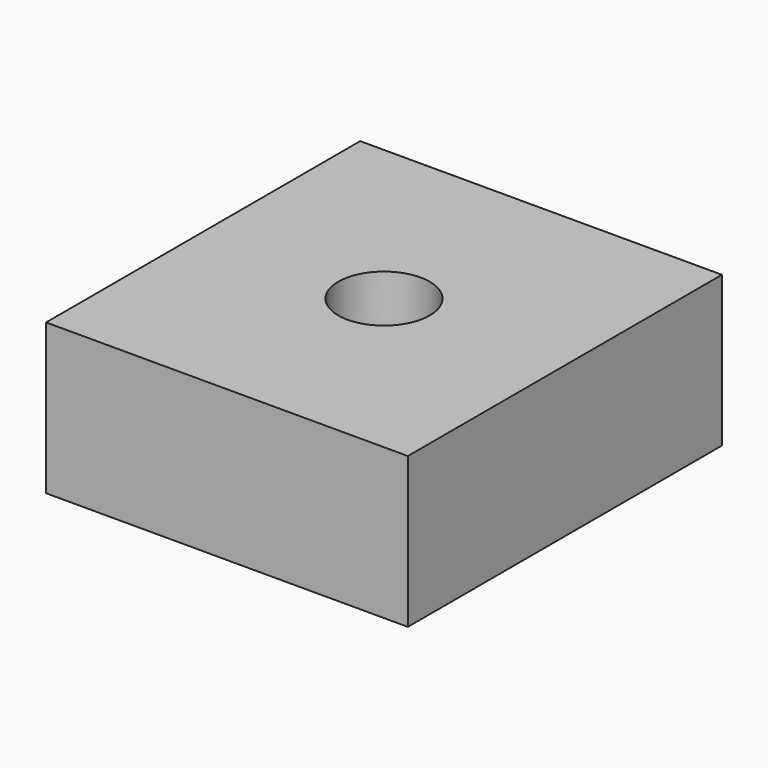
from build123d import *

# Parameters (mm, degrees)
F1_W     = 30.5479690433
F1_H     = 33.1509709358
F1_W_2   = 16.4528656751
F1_H_2   = 12.8562636673
F1_R     = 3.862880512
F2_DEPTH = 12.7


with BuildPart() as f2:
    # F1 (on face) → F2 (new body)
    with BuildSketch(Plane.XY):
        Rectangle(F1_W, F1_H)
        Rectangle(F1_W_2, F1_H_2, mode=Mode.SUBTRACT)
        Rectangle(F1_W_2, F1_H_2)
        Circle(F1_R, mode=Mode.SUBTRACT)
    extrude(amount=F2_DEPTH)


solid = f2.part
